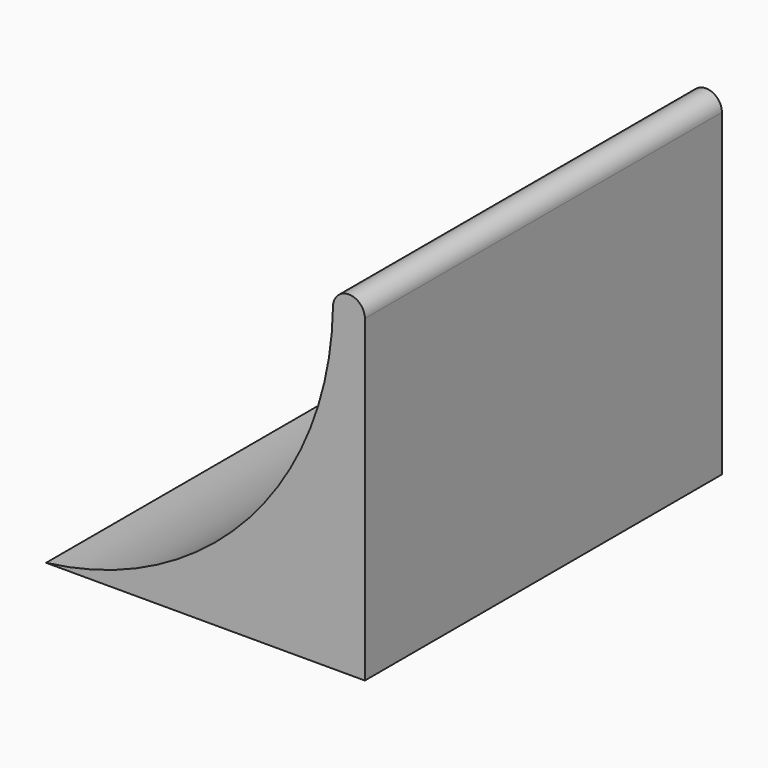
from build123d import *

# Parameters (mm, degrees)
F1_DEPTH = 44.45


with BuildPart() as f1:
    # F0 (on Front) → F1 (new body, symmetric)
    with BuildSketch(Plane.XZ):
        with BuildLine():
            Line((-63.5, 0), (0, 0))
            Line((0, 0), (0, 63.5))
            ThreePointArc((0, 63.5), (-3.175, 66.675), (-6.35, 63.5))
            ThreePointArc((-6.35, 63.5), (-23.037363, 21.051126), (-63.5, 0))
        make_face()
    extrude(amount=F1_DEPTH, both=True)


solid = f1.part
